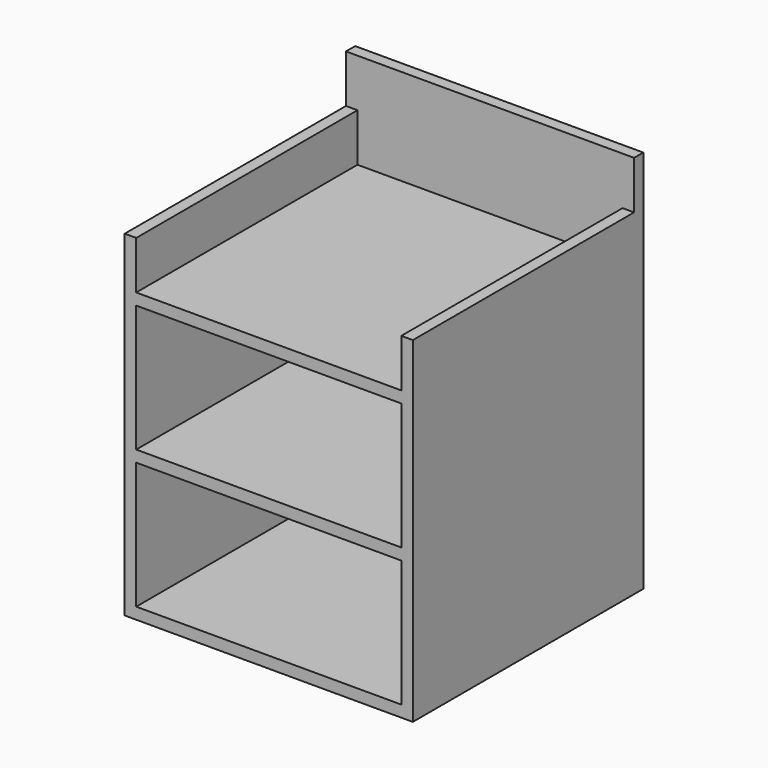
from build123d import *

# Parameters (mm, degrees)
F0_W      = 300
F0_H      = 300
F1_DEPTH  = 300
F2_T      = -12
F3_W      = 276
F3_H      = 12
F4_DEPTH  = 288
F5_W      = 300
F5_H      = 12
F6_DEPTH  = 100
F7_W      = 12
F7_H      = 288
F8_DEPTH  = 50
F9_W      = 12
F9_H      = 288
F10_DEPTH = 50


with BuildPart() as f1:
    # F0 (on Front) → F1 (new body)
    with BuildSketch(Plane.XZ):
        Rectangle(F0_W, F0_H)
    extrude(amount=-F1_DEPTH)

    # F2
    f2_openings = [f1.faces().sort_by_distance(p)[0] for p in [
        (0, 0, 0),
    ]]
    offset(amount=F2_T, openings=f2_openings)

    # F3 (on face) → F4 (join)
    with BuildSketch(Plane.XZ.offset(-288)):
        Rectangle(F3_W, F3_H)
    extrude(amount=F4_DEPTH)

    # F5 (on face) → F6 (join)
    with BuildSketch(Plane.XY.offset(150)):
        with Locations((0, 294)):
            Rectangle(F5_W, F5_H)
    extrude(amount=F6_DEPTH)

    # F7 (on face) → F8 (join)
    with BuildSketch(Plane.XY.offset(150)):
        with Locations((-144, 144)):
            Rectangle(F7_W, F7_H)
    extrude(amount=F8_DEPTH)

    # F9 (on face) → F10 (join)
    with BuildSketch(Plane.XY.offset(150)):
        with Locations((144, 144)):
            Rectangle(F9_W, F9_H)
    extrude(amount=F10_DEPTH)


solid = f1.part
